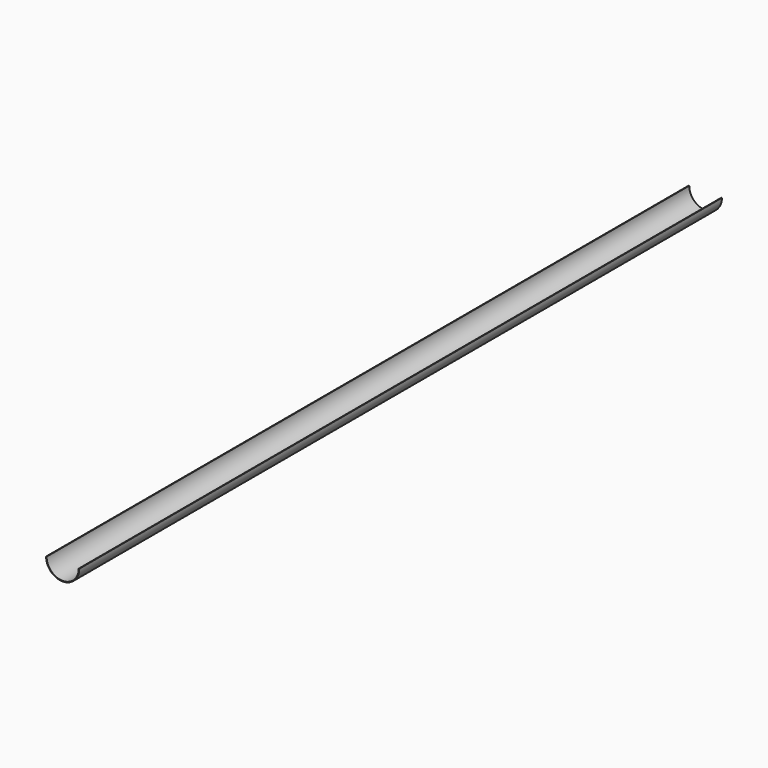
from build123d import *

# Parameters (mm, degrees)
F1_DEPTH = 3810


with BuildPart() as f1:
    # F0 (on Front) → F1 (new body)
    with BuildSketch(Plane.XZ):
        with BuildLine():
            ThreePointArc((76.2, 0), (0, -76.2), (-76.2, 0))
            Line((-76.2, 0), (-78.74, 0))
            ThreePointArc((-78.74, 0), (0, -78.74), (78.74, 0))
            Line((78.74, 0), (76.2, 0))
        make_face()
    extrude(amount=-F1_DEPTH)


solid = f1.part
